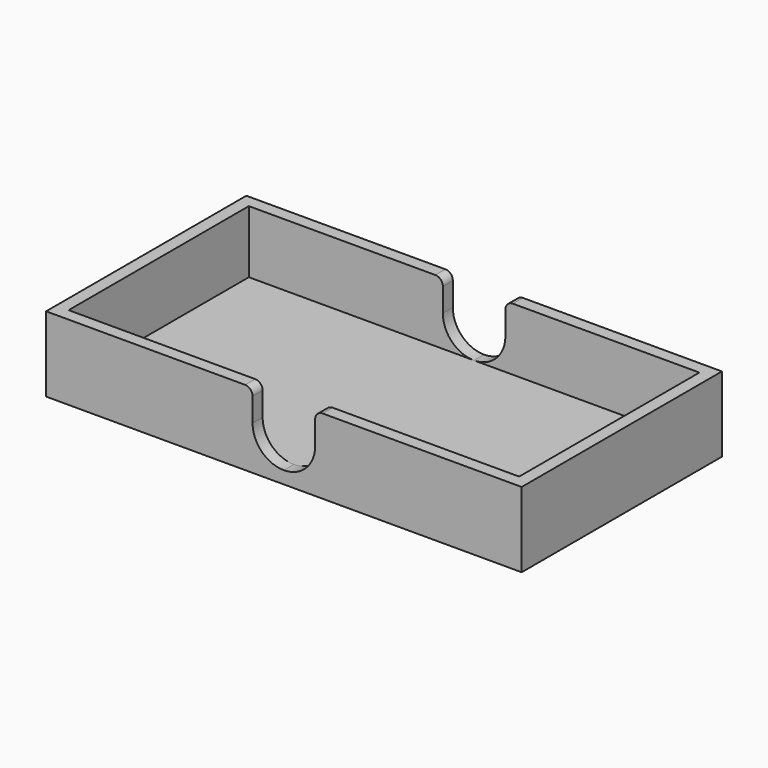
from build123d import *

# Parameters (mm, degrees)
F0_W     = 190
F0_H     = 100
F1_DEPTH = 30
F2_T     = -5
F4_DEPTH = 100
F5_R     = 3


with BuildPart() as f1:
    # F0 (on Top) → F1 (new body)
    with BuildSketch(Plane.XY):
        Rectangle(F0_W, F0_H)
    extrude(amount=F1_DEPTH)

    # F2
    f2_openings = [f1.faces().sort_by_distance(p)[0] for p in [
        (0, 0, 30),
    ]]
    offset(amount=F2_T, openings=f2_openings)

    # F3 (on face) → F4 (cut, through all)
    with BuildSketch(Plane.XZ.offset(50)):
        with BuildLine():
            ThreePointArc((-5.1e-08, 5), (8.8388347468, 8.6611652172), (12.5, 17.5))
            Line((12.5, 17.5), (-12.5, 17.5))
            ThreePointArc((-12.5, 17.5), (-8.8388347828, 8.6611652532), (-5.1e-08, 5))
        make_face()
        with BuildLine():
            ThreePointArc((-12.5, 17.5), (-8.8388347699, 26.3388347597), (-1.44e-08, 30))
            Line((-1.44e-08, 30), (-12.5, 30))
            Line((-12.5, 30), (-12.5, 17.5))
        make_face()
        with BuildLine():
            Line((-12.5, 17.5), (12.5, 17.5))
            ThreePointArc((12.5, 17.5), (8.8388347597, 26.3388347699), (-1.44e-08, 30))
            ThreePointArc((-1.44e-08, 30), (-8.8388347699, 26.3388347597), (-12.5, 17.5))
        make_face()
        with BuildLine():
            ThreePointArc((-1.44e-08, 30), (8.8388347597, 26.3388347699), (12.5, 17.5))
            Line((12.5, 17.5), (12.5, 30))
            Line((12.5, 30), (-1.44e-08, 30))
        make_face()
    extrude(amount=-F4_DEPTH, mode=Mode.SUBTRACT)

    # F5
    f5_edges = [f1.edges().sort_by_distance(p)[0] for p in [
        (-12.5, -47.5, 30),
        (12.5, -47.5, 30),
        (-12.5, 47.5, 30),
        (12.5, 47.5, 30),
    ]]
    fillet(f5_edges, radius=F5_R)


solid = f1.part
